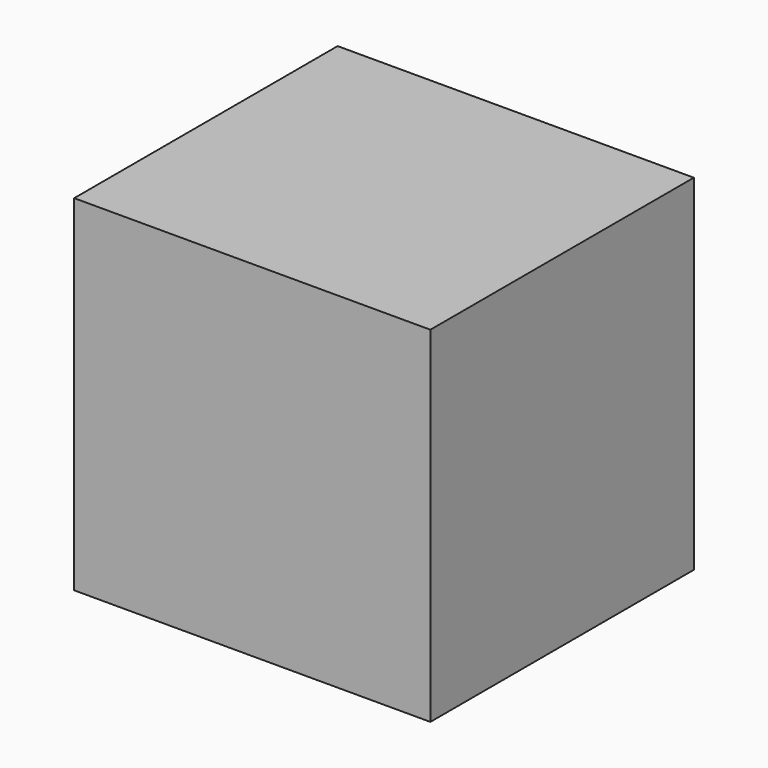
from build123d import *

# Parameters (mm, degrees)
F1_DEPTH = 30.988
F2_R     = 2.438246
F3_DEPTH = 25.4


with BuildPart() as f1:
    # F0 (on Front) → F1 (new body)
    with BuildSketch(Plane.XZ):
        Polygon((-21.094909, 16.749283), (-21.094909, 15.740251), (-21.094909, -15.741607), (12.422957, -15.741607), (12.422957, 16.749283), align=None)
    extrude(amount=F1_DEPTH)

    # F2 (on Front) → F3 (cut)
    with BuildSketch(Plane.XZ):
        with Locations((-10.997593, -6.255511)):
            Circle(F2_R)
    extrude(amount=-F3_DEPTH, mode=Mode.SUBTRACT)


solid = f1.part
